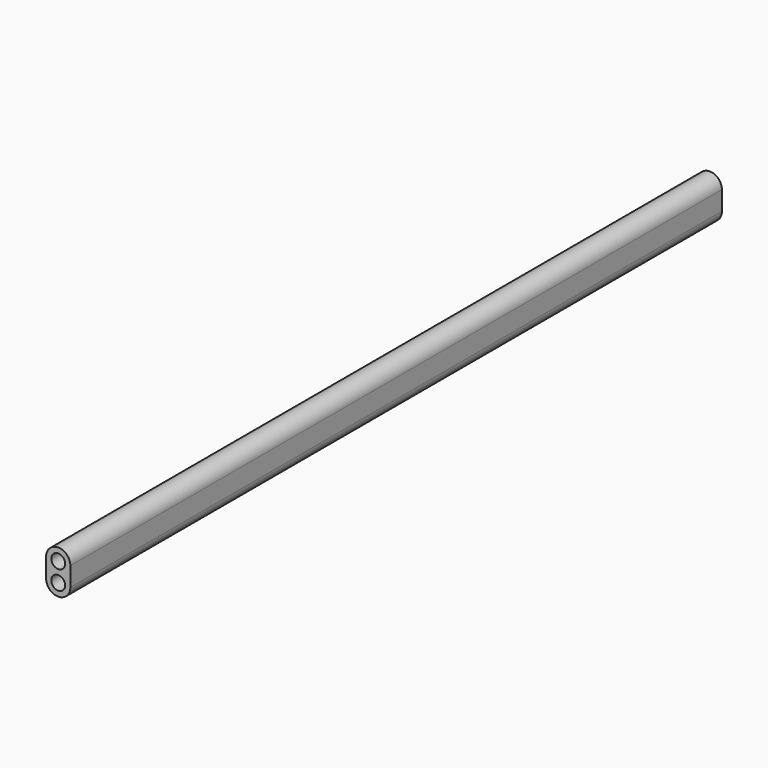
from build123d import *

# Parameters (mm, degrees)
F0_R     = 0.4
F1_DEPTH = 47


with BuildPart() as f1:
    # F0 (on Front) → F1 (new body)
    with BuildSketch(Plane.XZ):
        with BuildLine():
            Line((-0.7, 0.55), (-0.7, -0.55))
            ThreePointArc((-0.7, -0.55), (0, -1.25), (0.7, -0.55))
            Line((0.7, -0.55), (0.7, 0.55))
            ThreePointArc((0.7, 0.55), (0, 1.25), (-0.7, 0.55))
        make_face()
        with Locations((0, -0.55)):
            Circle(F0_R, mode=Mode.SUBTRACT)
        with Locations((0, 0.55)):
            Circle(F0_R, mode=Mode.SUBTRACT)
    extrude(amount=-F1_DEPTH)


solid = f1.part
